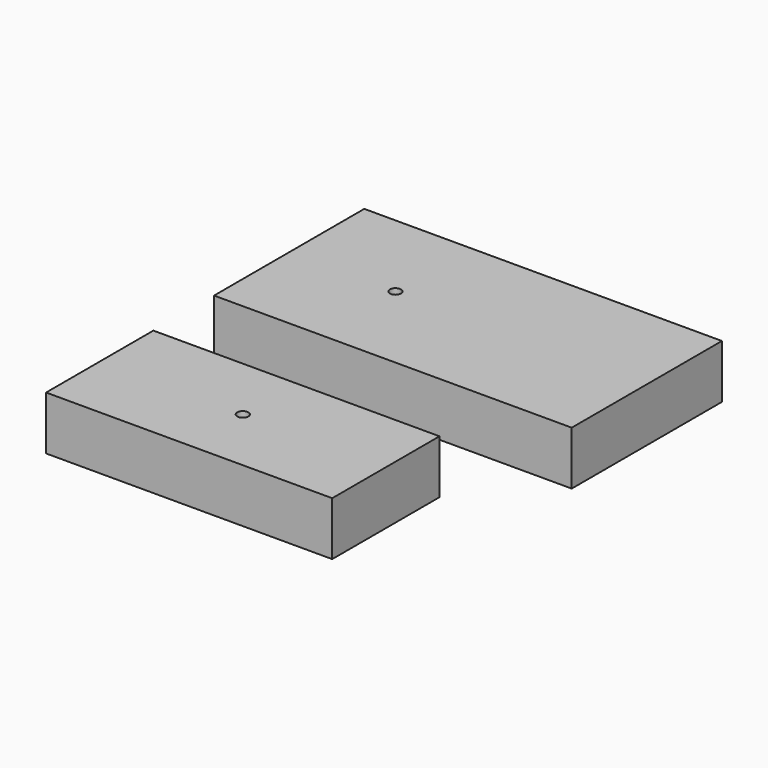
from build123d import *

# Parameters (mm, degrees)
F0_W           = 95.25
F0_H           = 38.1
F1_DEPTH       = 203.2
F0_W_2         = 133.35
F2_DEPTH       = 254
F4_D           = 7.9375
F4_START       = 18.3927056
F4_CBORE_D     = 19.05
F4_CBORE_DEPTH = 6.35
F5_D           = 7.9375


with BuildPart() as f1:
    # F0 (on Right) → F1 (new body)
    with BuildSketch(Plane.YZ):
        with Locations((-11.2807874495, 37.442705594)):
            Rectangle(F0_W, F0_H)
    extrude(amount=F1_DEPTH)

    # F4 (through all)
    # its depths count from where the whole tool has entered the part; down to there all is cleared
    with Locations(Plane(origin=(0, 0, 0), x_dir=(1, 0, 0), z_dir=(0, 0, -1)).offset(-F4_START)):
        with Locations((101.6, 11.2807874495)):
            CounterBoreHole(F4_D / 2, F4_CBORE_D / 2, F4_CBORE_DEPTH)


with BuildPart() as f2:
    # F0 (on Right) → F2 (new body)
    with BuildSketch(Plane.YZ):
        with Locations((156.8971798897, 37.442705594)):
            Rectangle(F0_W_2, F0_H)
    extrude(amount=F2_DEPTH)

    # F5 (through all)
    with Locations(Plane(origin=(0, 0, 0), x_dir=(1, 0, 0), z_dir=(0, 0, -1))):
        with Locations((75.4582360387, -156.8971798897)):
            Hole(F5_D / 2)


solid = Compound([f1.part, f2.part])
